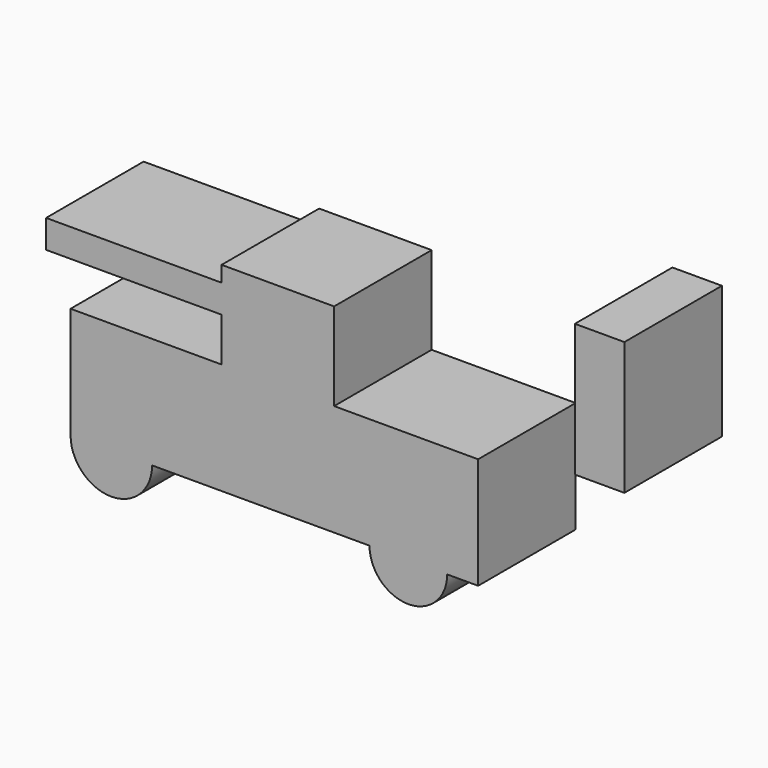
from build123d import *

# Parameters (mm, degrees)
F0_W     = 36.5669513121
F0_H     = 5.8600893244
F1_DEPTH = 25.4
F0_W_2   = 10.3137567639
F0_H_2   = 27.6596173644


with BuildPart() as f1:
    # F0 (on Front) → F1 (new body)
    with BuildSketch(Plane.XZ):
        with BuildLine():
            Line((-40.4540751946, 0), (-23.4666909206, 0))
            ThreePointArc((-23.4666909206, 0), (-31.9603830576, 8.493692137), (-40.4540751946, 0))
        make_face()
        with BuildLine():
            ThreePointArc((-40.4540751946, 0), (-31.9603830576, -8.493692137), (-23.4666909206, 0))
            Line((-23.4666909206, 0), (-40.4540751946, 0))
        make_face()
        with BuildLine():
            ThreePointArc((-40.4540751946, 0), (-31.9603830576, 8.493692137), (-23.4666909206, 0))
            Line((-23.4666909206, 0), (21.8258932433, 0))
            ThreePointArc((21.8258932433, 0), (29.9221500754, 8.0962568321), (38.0184069076, 0))
            Line((38.0184069076, 0), (44.4551706314, 0))
            Line((44.4551706314, 0), (44.4551706314, 23.2059489936))
            Line((44.4551706314, 23.2059489936), (14.4515149295, 23.2059489936))
            Line((14.4515149295, 23.2059489936), (-8.9888377115, 23.2059489936))
            Line((-8.9888377115, 23.2059489936), (-16.4897497743, 23.2059489936))
            Line((-16.4897497743, 23.2059489936), (-40.4540751946, 23.2059489936))
            Line((-40.4540751946, 23.2059489936), (-40.4540751946, 0))
        make_face()
        with BuildLine():
            Line((38.0184069076, 0), (21.8258932433, 0))
            ThreePointArc((21.8258932433, 0), (29.9221500754, -8.0962568321), (38.0184069076, 0))
        make_face()
        with BuildLine():
            ThreePointArc((38.0184069076, 0), (29.9221500754, 8.0962568321), (21.8258932433, 0))
            Line((21.8258932433, 0), (38.0184069076, 0))
        make_face()
        Polygon((-8.9888377115, 32.3476875201), (-8.9888377115, 23.2059489936), (14.4515149295, 23.2059489936), (14.4515149295, 41.4894260466), (-8.9888377115, 41.4894260466), (-8.9888377115, 38.2077768445), align=None)
        with Locations((-27.2723133676, 35.2777321823)):
            Rectangle(F0_W, F0_H)
    extrude(amount=F1_DEPTH)


with BuildPart() as f1b:
    # F0 (on Front) → F1, piece 2 (new body)
    with BuildSketch(Plane.XZ):
        with Locations((69.7707496583, 40.7862141728)):
            Rectangle(F0_W_2, F0_H_2)
    extrude(amount=F1_DEPTH)


solid = Compound([f1.part, f1b.part])
